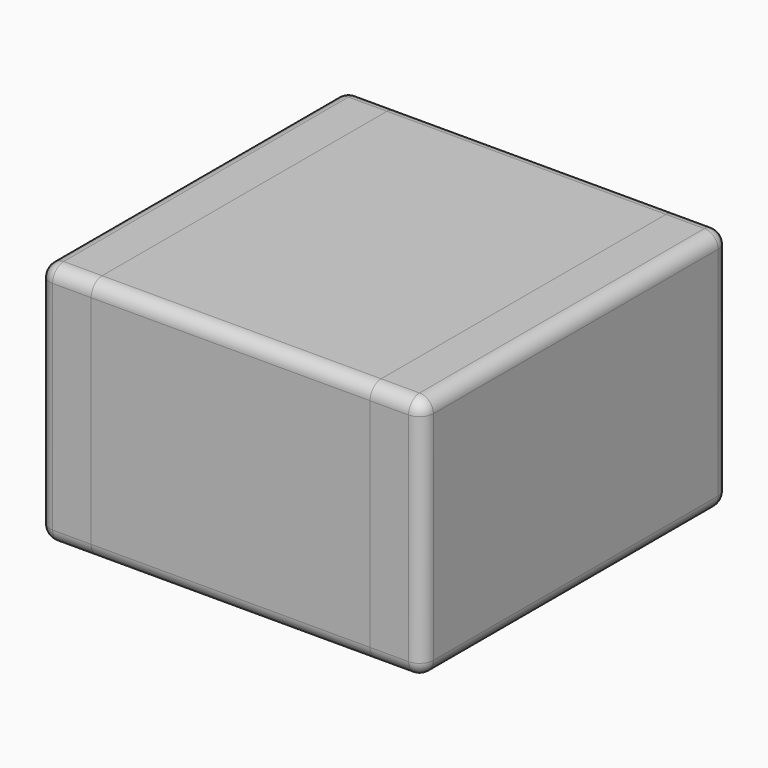
from build123d import *

# Parameters (mm, degrees)
F2_W     = 2.03
F2_H     = 2.79
F3_DEPTH = 0.89
F2_W_2   = 0.38
F4_DEPTH = 0.89
F5_DEPTH = 0.89
F6_R     = 0.1
F6_2_R   = 0.1
F6_3_R   = 0.1


with BuildPart() as f3:
    # F2 (on Top) → F3 (new body, symmetric)
    with BuildSketch(Plane.XY):
        Rectangle(F2_W, F2_H)
    extrude(amount=F3_DEPTH, both=True)

    # F6#2
    f6_2_edges = [f3.edges().sort_by_distance(p)[0] for p in [
        (0, -1.395, 0.89),
        (0, -1.395, -0.89),
        (0, 1.395, 0.89),
        (0, 1.395, -0.89),
    ]]
    fillet(f6_2_edges, radius=F6_2_R)


with BuildPart() as f4:
    # F2 (on Top) → F4 (new body, symmetric)
    with BuildSketch(Plane.XY):
        with Locations((-1.205, 0)):
            Rectangle(F2_W_2, F2_H)
    extrude(amount=F4_DEPTH, both=True)

    # F6
    f6_edges = [f4.edges().sort_by_distance(p)[0] for p in [
        (-1.205, -1.395, 0.89),
        (-1.205, -1.395, -0.89),
        (-1.395, 1.395, 0),
        (-1.395, 0, -0.89),
        (-1.395, -1.395, 0),
        (-1.395, 0, 0.89),
        (-1.205, 1.395, -0.89),
        (-1.205, 1.395, 0.89),
    ]]
    fillet(f6_edges, radius=F6_R)


with BuildPart() as f5:
    # F2 (on Top) → F5 (new body, symmetric)
    with BuildSketch(Plane.XY):
        with Locations((1.205, 0)):
            Rectangle(F2_W_2, F2_H)
    extrude(amount=F5_DEPTH, both=True)

    # F6#3
    f6_3_edges = [f5.edges().sort_by_distance(p)[0] for p in [
        (1.205, -1.395, 0.89),
        (1.395, 0, -0.89),
        (1.395, 1.395, 0),
        (1.395, 0, 0.89),
        (1.395, -1.395, 0),
        (1.205, -1.395, -0.89),
        (1.205, 1.395, 0.89),
        (1.205, 1.395, -0.89),
    ]]
    fillet(f6_3_edges, radius=F6_3_R)


solid = Compound([f3.part, f4.part, f5.part])
